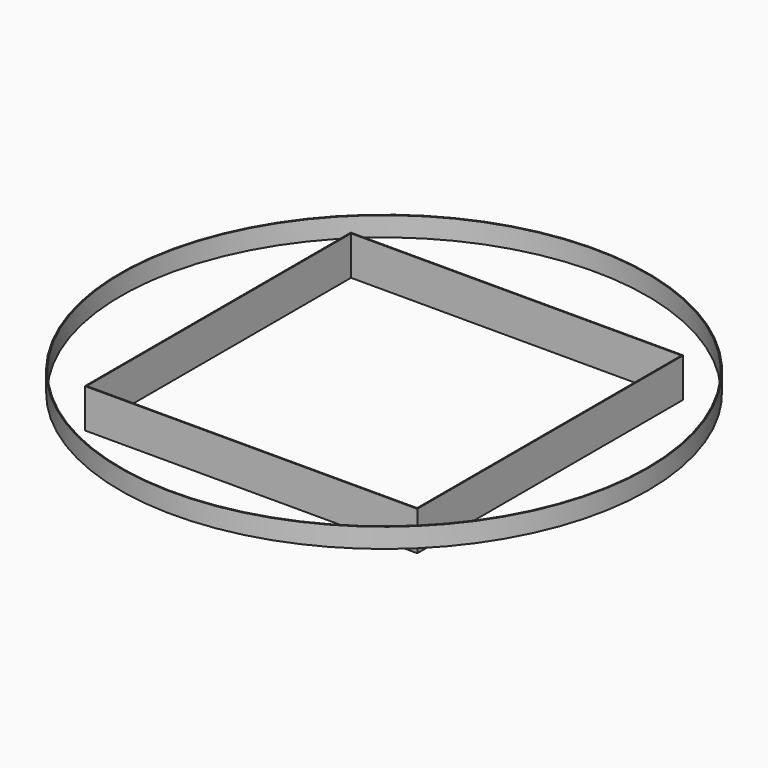
from build123d import *

# Parameters (mm, degrees)
F0_R     = 135
F0_R_2   = 134.5
F1_DEPTH = 10
F0_W     = 170
F0_H     = 170
F0_W_2   = 169
F0_H_2   = 169
F2_DEPTH = 20


with BuildPart() as f1:
    # F0 (on Top) → F1 (new body)
    with BuildSketch(Plane.XY):
        Circle(F0_R)
        Circle(F0_R_2, mode=Mode.SUBTRACT)
    extrude(amount=-F1_DEPTH)


with BuildPart() as f2:
    # F0 (on Top) → F2 (new body)
    with BuildSketch(Plane.XY):
        Rectangle(F0_W, F0_H)
        Rectangle(F0_W_2, F0_H_2, mode=Mode.SUBTRACT)
    extrude(amount=-F2_DEPTH)


solid = Compound([f1.part, f2.part])
